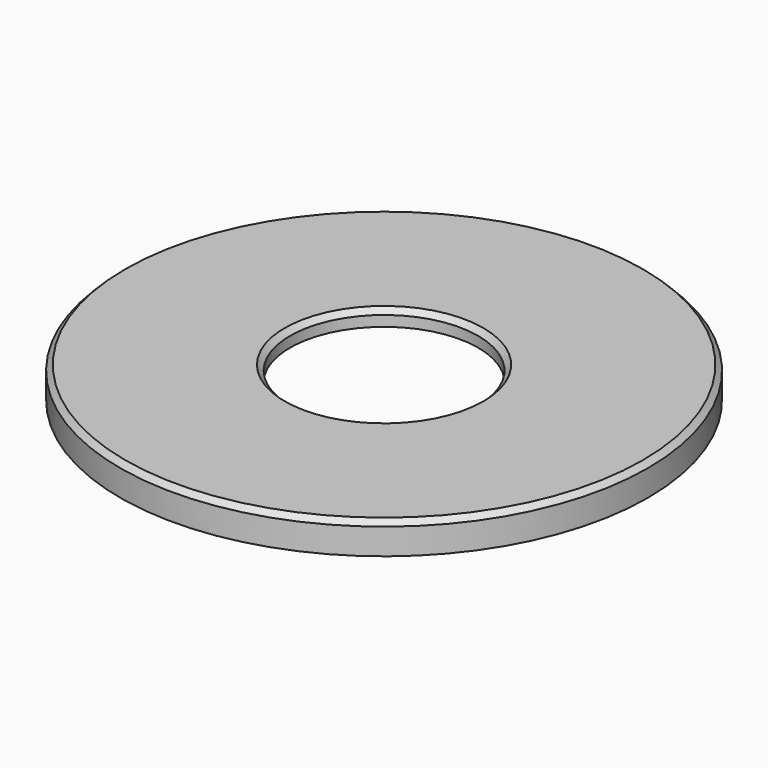
from build123d import *

# Parameters (mm, degrees)
F0_R     = 50.5
F0_R_2   = 45.5
F1_DEPTH = 6
F2_DEPTH = 3
F3_R     = 18
F4_DEPTH = 6.001
F5_SIZE  = 1


with BuildPart() as f1:
    # F0 (on Top) → F1 (new body)
    with BuildSketch(Plane.XY):
        Circle(F0_R)
        Circle(F0_R_2, mode=Mode.SUBTRACT)
        Circle(F0_R_2)
    extrude(amount=F1_DEPTH)

    # F0 (on Top) → F2 (cut)
    with BuildSketch(Plane.XY):
        Circle(F0_R_2)
    extrude(amount=F2_DEPTH, mode=Mode.SUBTRACT)

    # F3 (on face) → F4 (cut, through all)
    with BuildSketch(Plane.XY.offset(6)):
        Circle(F3_R)
    extrude(amount=-F4_DEPTH, mode=Mode.SUBTRACT)

    # F5
    f5_edges = [f1.edges().sort_by_distance(p)[0] for p in [
        (-18, 0, 6),
        (-50.5, 0, 6),
    ]]
    chamfer(f5_edges, length=F5_SIZE)


solid = f1.part
